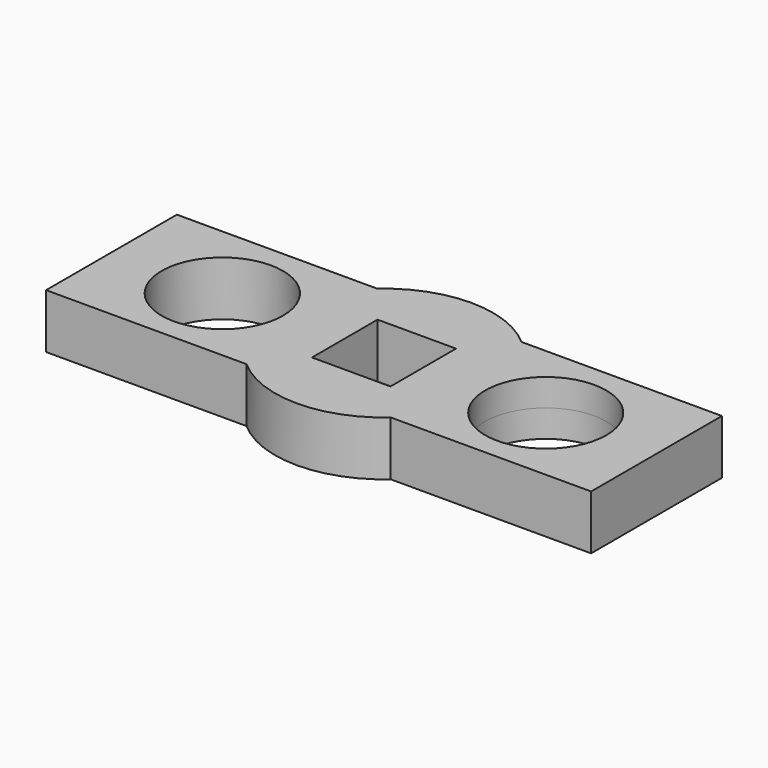
from build123d import *

# Parameters (mm, degrees)
F2_DEPTH = 1.5875
F1_W     = 4.572
F1_H     = 4.7752
F1_R     = 3.5306
F1_R_2   = 3.5344711505
F3_DEPTH = 1.5875


with BuildPart() as f2:
    # F0 (on Top) → F2 (new body, symmetric)
    with BuildSketch(Plane.XY):
        with BuildLine():
            ThreePointArc((4.2001302063, -4.7625), (5.7876302063, -2.6126302063), (6.35, 0))
            ThreePointArc((6.35, 0), (5.7876302063, 2.6126302063), (4.2001302063, 4.7625))
            Line((4.2001302063, 4.7625), (3.175, 4.7625))
            Line((3.175, 4.7625), (3.175, -4.7625))
            Line((3.175, -4.7625), (4.2001302063, -4.7625))
        make_face()
        with BuildLine():
            ThreePointArc((4.2001302063, 4.7625), (5.7876302063, 2.6126302063), (6.35, 0))
            ThreePointArc((6.35, 0), (5.7876302063, -2.6126302063), (4.2001302063, -4.7625))
            Line((4.2001302063, -4.7625), (15.875, -4.7625))
            Line((15.875, -4.7625), (15.875, 4.7625))
            Line((15.875, 4.7625), (4.2001302063, 4.7625))
        make_face()
        with BuildLine():
            Line((3.175, 4.7625), (4.2001302063, 4.7625))
            ThreePointArc((4.2001302063, 4.7625), (0, 6.35), (-4.2001302063, 4.7625))
            Line((-4.2001302063, 4.7625), (-3.175, 4.7625))
            Line((-3.175, 4.7625), (-3.175, -4.7625))
            Line((-3.175, -4.7625), (-4.2001302063, -4.7625))
            ThreePointArc((-4.2001302063, -4.7625), (0, -6.35), (4.2001302063, -4.7625))
            Line((4.2001302063, -4.7625), (3.175, -4.7625))
            Line((3.175, -4.7625), (3.175, 4.7625))
        make_face()
        with BuildLine():
            Line((-3.175, 4.7625), (-4.2001302063, 4.7625))
            ThreePointArc((-4.2001302063, 4.7625), (-6.35, 0), (-4.2001302063, -4.7625))
            Line((-4.2001302063, -4.7625), (-3.175, -4.7625))
            Line((-3.175, -4.7625), (-3.175, 4.7625))
        make_face()
        with BuildLine():
            ThreePointArc((-4.2001302063, -4.7625), (-6.35, 0), (-4.2001302063, 4.7625))
            Line((-4.2001302063, 4.7625), (-15.875, 4.7625))
            Line((-15.875, 4.7625), (-15.875, -4.7625))
            Line((-15.875, -4.7625), (-4.2001302063, -4.7625))
        make_face()
    extrude(amount=F2_DEPTH, both=True)

    # F1 (on Top) → F3 (cut, symmetric)
    with BuildSketch(Plane.XY):
        Rectangle(F1_W, F1_H)
        with Locations((9.4234, 0)):
            Circle(F1_R)
        with Locations((-9.4195288495, 0)):
            Circle(F1_R_2)
    extrude(amount=F3_DEPTH, both=True, mode=Mode.SUBTRACT)


solid = f2.part
